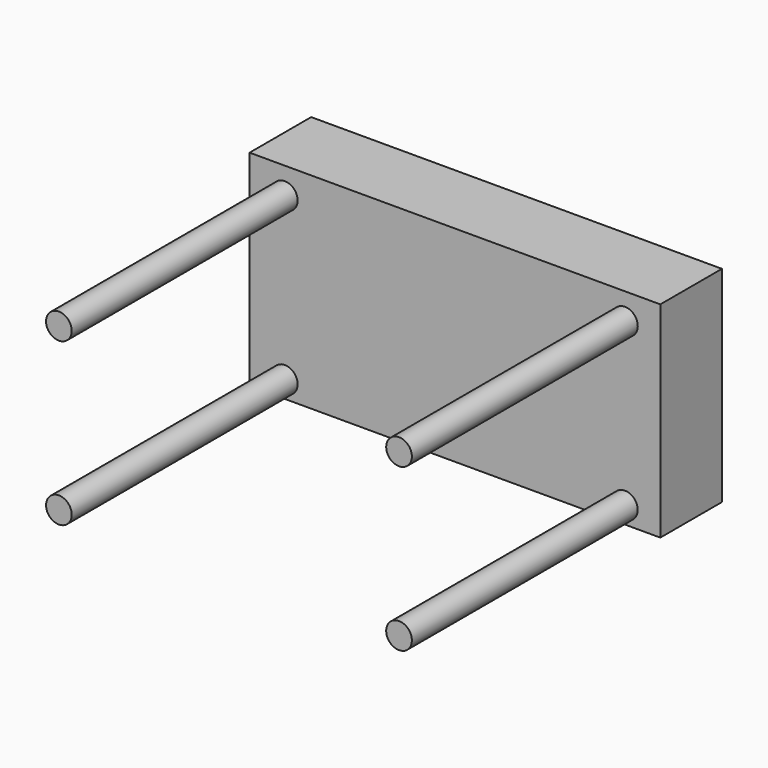
from build123d import *

# Parameters (mm, degrees)
F0_W     = 203.2
F0_H     = 101.6
F0_R     = 6.35
F1_DEPTH = 38.1
F2_W     = 177.8
F2_H     = 76.2
F3_DEPTH = 19.05
F4_DEPTH = 177.8


with BuildPart() as f1:
    # F0 (on Front) → F1 (new body)
    with BuildSketch(Plane.XZ):
        Rectangle(F0_W, F0_H)
        with Locations((-84.18493, -42.365655)):
            Circle(F0_R, mode=Mode.SUBTRACT)
        with Locations((84.092915, -42.365655)):
            Circle(F0_R, mode=Mode.SUBTRACT)
        with Locations((-84.18493, 37.715852)):
            Circle(F0_R, mode=Mode.SUBTRACT)
        with Locations((84.092915, 37.715852)):
            Circle(F0_R, mode=Mode.SUBTRACT)
        with Locations((84.092915, -42.365655)):
            Circle(F0_R)
        with Locations((84.092915, 37.715852)):
            Circle(F0_R)
        with Locations((-84.18493, 37.715852)):
            Circle(F0_R)
        with Locations((-84.18493, -42.365655)):
            Circle(F0_R)
    extrude(amount=F1_DEPTH)

    # F2 (on Front) → F3 (cut)
    with BuildSketch(Plane.XZ):
        Rectangle(F2_W, F2_H)
    extrude(amount=F3_DEPTH, mode=Mode.SUBTRACT)


with BuildPart() as f4:
    # F0 (on Front) → F4 (new body)
    with BuildSketch(Plane.XZ):
        with Locations((-84.18493, -42.365655)):
            Circle(F0_R)
        with Locations((-84.18493, 37.715852)):
            Circle(F0_R)
        with Locations((84.092915, -42.365655)):
            Circle(F0_R)
        with Locations((84.092915, 37.715852)):
            Circle(F0_R)
    extrude(amount=F4_DEPTH)


solid = Compound([f1.part, f4.part])
